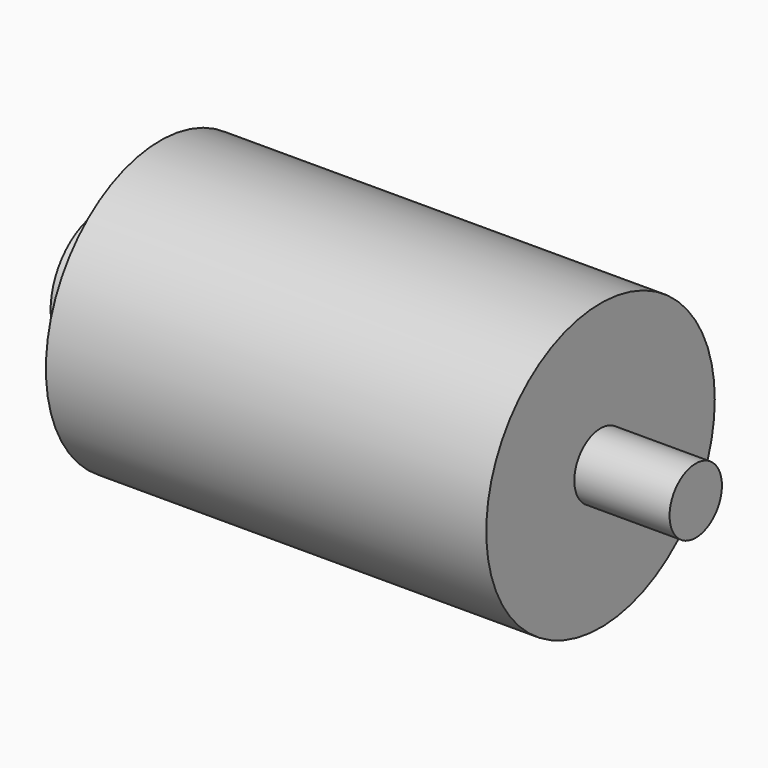
from build123d import *

# Parameters (mm, degrees)
SKETCH005_R  = 12
PAD004_DEPTH = 37
SKETCH006_R  = 2.75
PAD005_DEPTH = 8
SKETCH007_R  = 5.25
PAD006_DEPTH = 5


with BuildPart() as part:
    # Sketch005 → Pad004 (new body)
    with BuildSketch(Plane.YZ):
        Circle(SKETCH005_R)
    extrude(amount=PAD004_DEPTH)

    # Sketch006 (on Face3 of Pad004) → Pad005 (join)
    with BuildSketch(Plane.YZ.offset(37)):
        Circle(SKETCH006_R)
    extrude(amount=PAD005_DEPTH)

    # Sketch007 (on Face2 of Pad005) → Pad006 (join)
    with BuildSketch(Plane(origin=(0, 0, 0), x_dir=(0, 1, 0), z_dir=(-1, 0, 0))):
        Circle(SKETCH007_R)
    extrude(amount=PAD006_DEPTH)


with BuildPart() as part_1:
    # Body002 placement: moved
    add(part.part.moved(Location((12, -38, 17))))


solid = part_1.part
